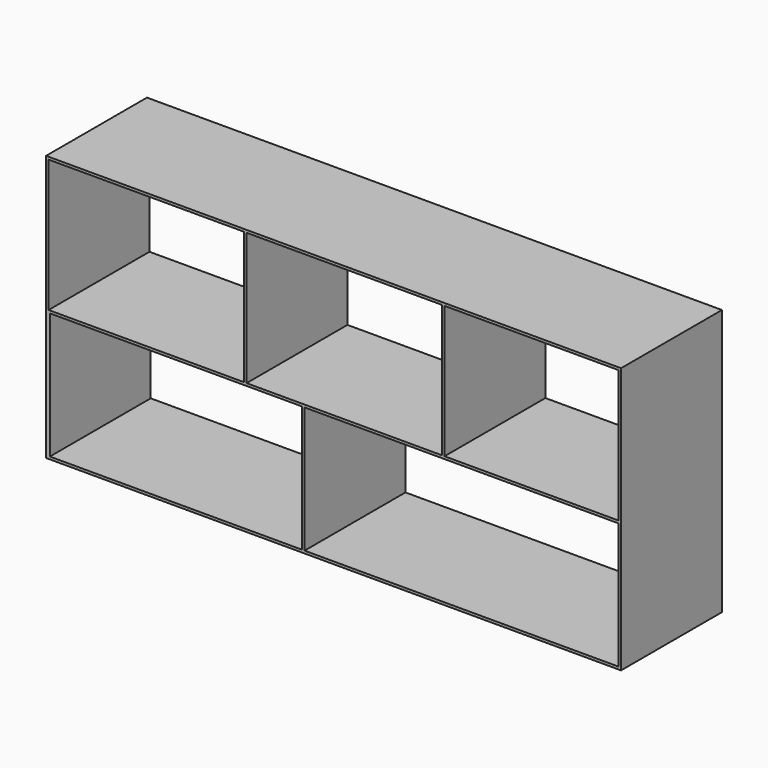
from build123d import *

# Parameters (mm, degrees)
F0_W     = 182.4
F0_H     = 40
F1_DEPTH = 84.4
F2_W     = 99.6
F2_H     = 40
F2_W_2   = 80
F2_W_3   = 55.2
F2_H_2   = 42
F2_W_4   = 62
F3_DEPTH = 833.71328


with BuildPart() as f1:
    # F0 (on Top) → F1 (new body)
    with BuildSketch(Plane.XY):
        Rectangle(F0_W, F0_H)
    extrude(amount=F1_DEPTH)

    # F2 (on face) → F3 (cut)
    with BuildSketch(Plane.XZ.offset(20)):
        with Locations((40.6, 20.8)):
            Rectangle(F2_W, F2_H)
        with Locations((-50, 20.8)):
            Rectangle(F2_W_2, F2_H)
        with Locations((62.8, 62.6)):
            Rectangle(F2_W_3, F2_H_2)
        with Locations((-59.4, 62.6)):
            Rectangle(F2_W_4, F2_H_2)
        with Locations((3.4, 62.6)):
            Rectangle(F2_W_4, F2_H_2)
    extrude(amount=-F3_DEPTH, mode=Mode.SUBTRACT)


solid = f1.part
